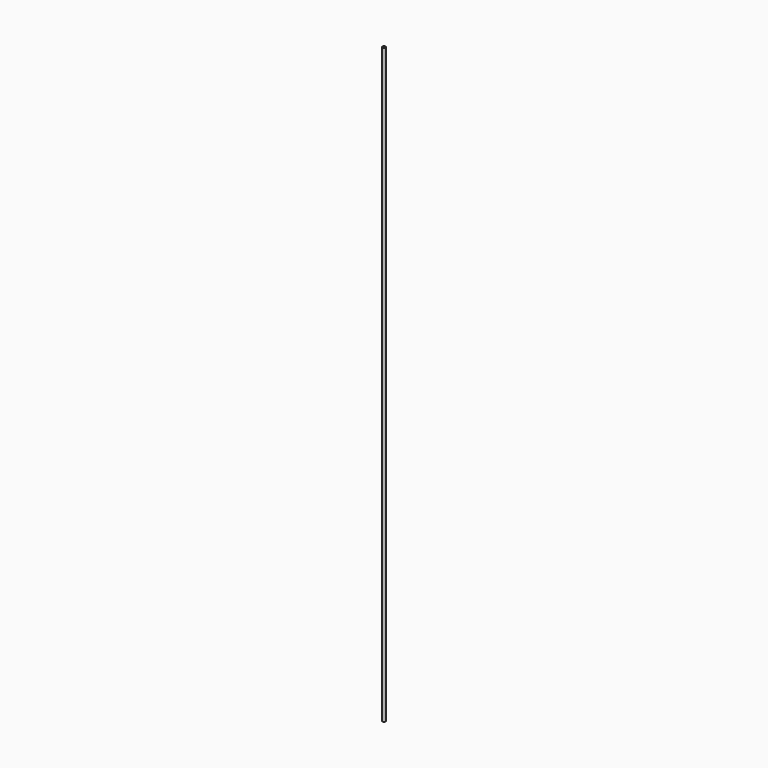
from build123d import *

# Parameters (mm, degrees)
CYLINDER_R     = 0.56
CYLINDER_DEPTH = 200
SKETCH_R       = 0.218838
POCKET_DEPTH   = 200.001


with BuildPart() as part:
    # Cylinder → Cylinder (join)
    with BuildSketch(Plane.XY):
        Circle(CYLINDER_R)
    extrude(amount=CYLINDER_DEPTH)

    # Sketch (on Face3 of Cylinder) → Pocket (cut, through all)
    with BuildSketch(Plane.XY.offset(200)):
        Circle(SKETCH_R)
    extrude(amount=-POCKET_DEPTH, mode=Mode.SUBTRACT)


solid = part.part
